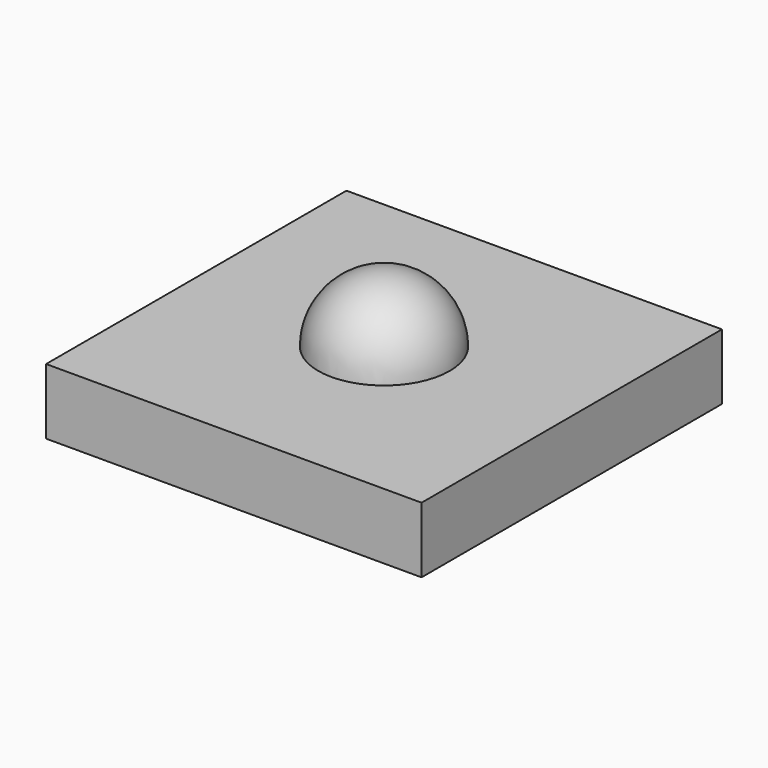
from build123d import *

# Parameters (mm, degrees)
F0_W     = 40
F0_H     = 40
F1_DEPTH = 7


with BuildPart() as f1:
    # F0 (on Top) → F1 (new body)
    with BuildSketch(Plane.XY):
        Rectangle(F0_W, F0_H)
    extrude(amount=F1_DEPTH)

    # F2 (on face) → F3 (revolve)
    with BuildSketch(Plane.XY.offset(7)):
        with BuildLine():
            Line((7, 0), (-7, 0))
            ThreePointArc((-7, 0), (0, -7), (7, 0))
        make_face()
    revolve(axis=Axis((0, 0, 7), (-1, 0, 0)))


solid = f1.part
